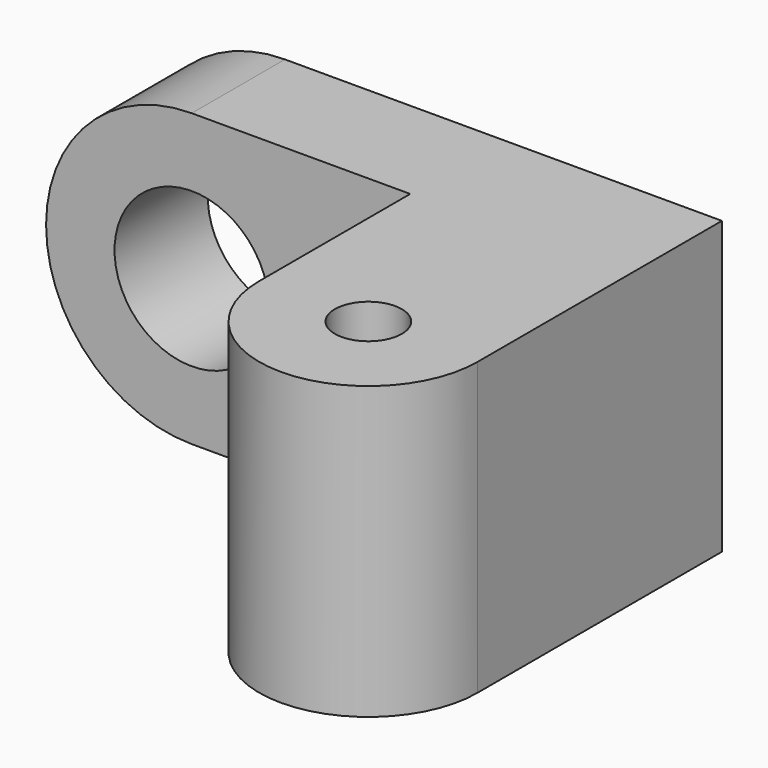
from build123d import *

# Parameters (mm, degrees)
F0_R     = 2.65
F1_DEPTH = 4
F2_R     = 1.15
F3_DEPTH = 10


with BuildPart() as f1:
    # F0 (on Front) → F1 (new body)
    with BuildSketch(Plane.XZ):
        with BuildLine():
            Line((-7.5, -5), (7.5, -5))
            Line((7.5, -5), (7.5, 5))
            Line((7.5, 5), (-7.5, 5))
            ThreePointArc((-7.5, 5), (-12.5, 0), (-7.5, -5))
        make_face()
        with Locations((-7.5, 0)):
            Circle(F0_R, mode=Mode.SUBTRACT)
    extrude(amount=F1_DEPTH)

    # F2 (on face) → F3 (join, through all)
    with BuildSketch(Plane(origin=(0, 0, -5), x_dir=(1, 0, 0), z_dir=(0, 0, -1))):
        with BuildLine():
            Line((0, 4), (7.5, 4))
            Line((7.5, 4), (7.5, 10.48325))
            ThreePointArc((7.5, 10.48325), (3.75, 14.23325), (0, 10.48325))
            Line((0, 10.48325), (0, 4))
        make_face()
        with Locations((3.75, 10.48325)):
            Circle(F2_R, mode=Mode.SUBTRACT)
    extrude(amount=-F3_DEPTH)


solid = f1.part
